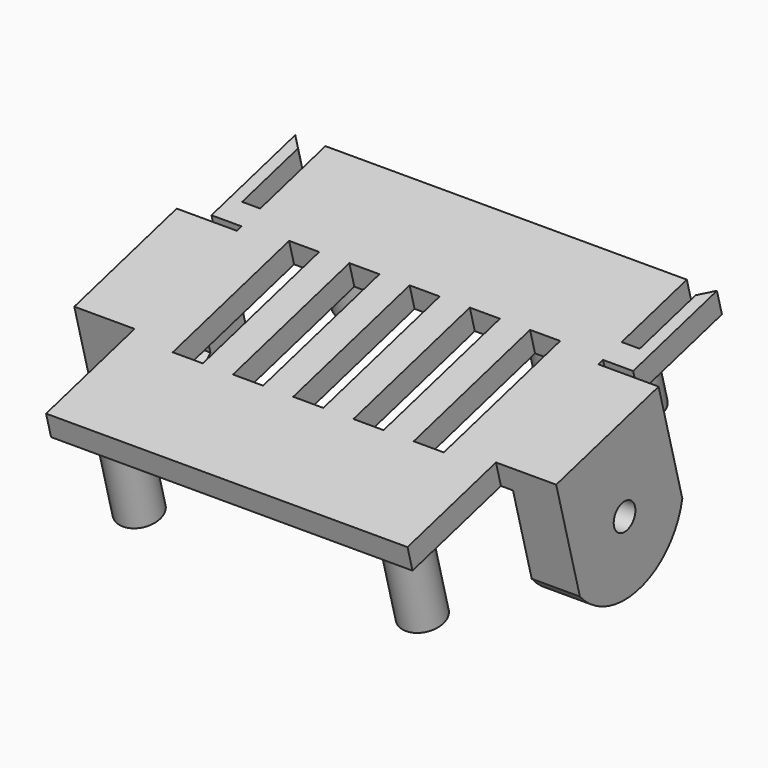
from build123d import *

# Parameters (mm, degrees)
SKETCH_W             = 60
SKETCH_H             = 60
PAD_DEPTH            = 4
SKETCH001_R          = 3.5
SKETCH001_R_2        = 1.25
PAD001_DEPTH         = 8
SKETCH009_W          = 5
SKETCH009_H          = 25
POCKET008_DEPTH      = 4
PAD006_DEPTH         = 4
SKETCH015_W          = 22
SKETCH015_H          = 4
PAD007_DEPTH         = 2
SKETCH003_R          = 2.25
PAD008_DEPTH         = 8
SKETCH014_R          = 3.5
SKETCH014_R_2        = 1.25
PAD009_DEPTH         = 15
POCKET_DEPTH         = 4
BODY_PLACEMENT_ANGLE = 195


with BuildPart() as part:
    # Sketch → Pad (new body)
    with BuildSketch(Plane.XY):
        Rectangle(SKETCH_W, SKETCH_H)
    extrude(amount=PAD_DEPTH)

    # Sketch001 (on Face6 of Pad) → Pad001 (join)
    with BuildSketch(Plane.XY.offset(4)):
        with Locations((-17, 17)):
            Circle(SKETCH001_R)
        with Locations((-17, 17)):
            Circle(SKETCH001_R_2, mode=Mode.SUBTRACT)
        with Locations((-17, -17)):
            Circle(SKETCH001_R)
        with Locations((-17, -17)):
            Circle(SKETCH001_R_2, mode=Mode.SUBTRACT)
        with Locations((17, -17)):
            Circle(SKETCH001_R)
        with Locations((17, -17)):
            Circle(SKETCH001_R_2, mode=Mode.SUBTRACT)
        with Locations((17, 17)):
            Circle(SKETCH001_R)
        with Locations((17, 17)):
            Circle(SKETCH001_R_2, mode=Mode.SUBTRACT)
    extrude(amount=PAD001_DEPTH)

    # Sketch009 → Pocket008 (cut)
    with BuildSketch(Plane(origin=(0, 0, 0), x_dir=(1, 0, 0), z_dir=(0, 0, -1))):
        Rectangle(SKETCH009_W, SKETCH009_H)
        with Locations((10, 0)):
            Rectangle(SKETCH009_W, SKETCH009_H)
        with Locations((20, 0)):
            Rectangle(SKETCH009_W, SKETCH009_H)
        with Locations((-10, 0)):
            Rectangle(SKETCH009_W, SKETCH009_H)
        with Locations((-20, 0)):
            Rectangle(SKETCH009_W, SKETCH009_H)
    extrude(amount=-POCKET008_DEPTH, mode=Mode.SUBTRACT)

    # Sketch012 (on Face5 of Pocket008) → Pad006 (join)
    with BuildSketch(Plane.XY.offset(4)):
        Polygon((-30, -12), (-35, -12), (-35, -30), (-33, -28), (-33, -16), (-30, -16), align=None)
    pad006 = extrude(amount=-PAD006_DEPTH)

    # Mirrored005: Pad006 across Sketch012 V_Axis
    add(pad006.mirror(Plane(origin=(0, 0, 4), x_dir=(0, 0, 1), z_dir=(1, 0, 0))))

    # Sketch015 (on Face4 of Pad) → Pad007 (join)
    with BuildSketch(Plane(origin=(-30, 0, 0), x_dir=(0, -1, 0), z_dir=(-1, 0, 0))):
        with Locations((0, 2)):
            Rectangle(SKETCH015_W, SKETCH015_H)
    pad007 = extrude(amount=PAD007_DEPTH)

    # Sketch003 (on Face42 of Pad007) → Pad008 (join)
    with BuildSketch(Plane(origin=(-32, 0, 0), x_dir=(0, -1, 0), z_dir=(-1, 0, 0))):
        with BuildLine():
            ThreePointArc((11, 19), (0, 25.938622), (-11, 19))
            Line((-11, 19), (-11, 0))
            Line((11, 0), (-11, 0))
            Line((11, 19), (11, 0))
        make_face()
        with Locations((0, 13.75)):
            Circle(SKETCH003_R, mode=Mode.SUBTRACT)
    pad008 = extrude(amount=PAD008_DEPTH)

    # Sketch014 → Pad009 (join)
    with BuildSketch(Plane.XY.offset(4)):
        with Locations((-23.5, 23.5)):
            Circle(SKETCH014_R)
        with Locations((-23.5, 23.5)):
            Circle(SKETCH014_R_2, mode=Mode.SUBTRACT)
        with Locations((23.5, 23.5)):
            Circle(SKETCH014_R)
        with Locations((23.5, 23.5)):
            Circle(SKETCH014_R_2, mode=Mode.SUBTRACT)
        with Locations((23.5, -23.5)):
            Circle(SKETCH014_R)
        with Locations((23.5, -23.5)):
            Circle(SKETCH014_R_2, mode=Mode.SUBTRACT)
        with Locations((-23.5, -23.5)):
            Circle(SKETCH014_R)
        with Locations((-23.5, -23.5)):
            Circle(SKETCH014_R_2, mode=Mode.SUBTRACT)
    extrude(amount=PAD009_DEPTH)

    # Sketch016 (on Face58 of Pad009) → Pocket (cut)
    with BuildSketch(Plane.YZ.offset(-32)):
        Polygon((-3.637307, 15.85), (-3.637307, 11.65), (0, 9.55), (3.637307, 11.65), (3.637307, 15.85), (0, 17.95), align=None)
    pocket = extrude(amount=-POCKET_DEPTH, mode=Mode.SUBTRACT)

    # Mirrored: Pad007, Pad008 across YZ
    add(pad007.mirror(Plane.YZ))
    add(pad008.mirror(Plane.YZ))

    # Mirrored006: Pocket across YZ
    add(pocket.mirror(Plane.YZ), mode=Mode.SUBTRACT)


with BuildPart() as part_1:
    # Body placement: moved
    add(part.part.moved(Location((0, 40.435572, 22.17023))).rotate(Axis((0, 40.435572, 22.17023), (1, 0, 0)), BODY_PLACEMENT_ANGLE))


solid = part_1.part
